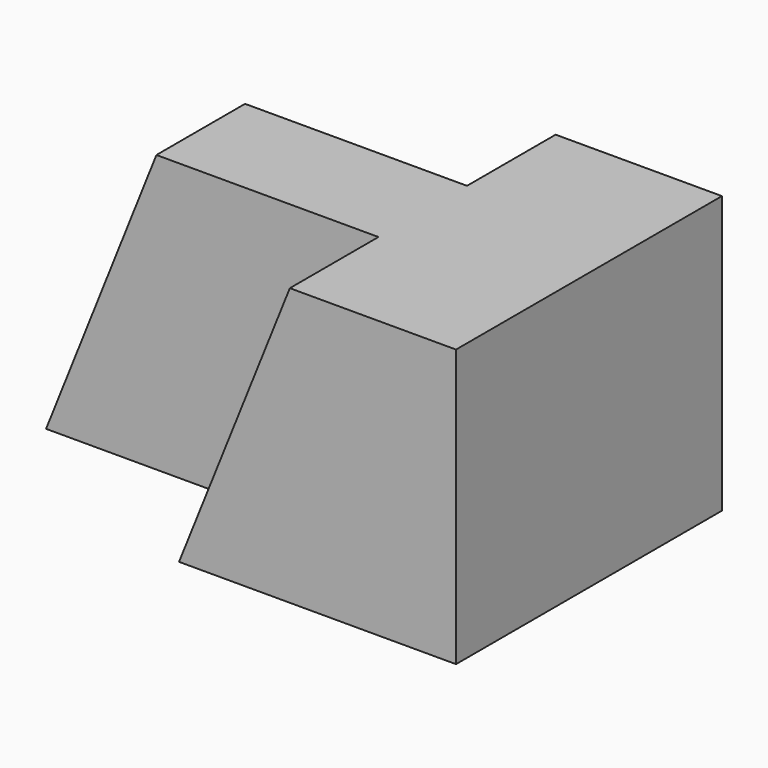
from build123d import *

# Parameters (mm, degrees)
F0_W      = 57.15
F0_H      = 31.75
F1_DEPTH  = 38.1
F3_DEPTH  = 64.77
F4_W      = 12.7
F4_H      = 32.225172
F5_DEPTH  = 25.4
F7_DEPTH  = 12.7
F9_DEPTH  = 12.7
F11_DEPTH = 12.7


with BuildPart() as f1:
    # F0 (on Front) → F1 (new body)
    with BuildSketch(Plane.XZ):
        with Locations((28.575, 15.875)):
            Rectangle(F0_W, F0_H)
    extrude(amount=F1_DEPTH)

    # F2 (on Front) → F3 (cut)
    with BuildSketch(Plane.XZ):
        Polygon((0, 0), (12.7, 31.884328), (0, 31.884328), align=None)
    extrude(amount=F3_DEPTH, mode=Mode.SUBTRACT)

    # F4 (on Right) → F5 (cut)
    with BuildSketch(Plane.YZ):
        with Locations((-6.35, 16.112586)):
            Rectangle(F4_W, F4_H)
        Polygon((-25.4, 0), (-25.4, 32.225172), (-38.1, 32.225172), (-38.209904, 0), align=None)
    extrude(amount=F5_DEPTH, mode=Mode.SUBTRACT)

    # F6 (on Front) → F7 (cut)
    with BuildSketch(Plane.XZ):
        Polygon((38.103979, 31.787962), (25.397928, 31.787962), (25.365233, 0), align=None)
    extrude(amount=F7_DEPTH, mode=Mode.SUBTRACT)

    # F8 (on Front) → F9 (cut)
    with BuildSketch(Plane.XZ):
        Polygon((75.160764, -53.294525), (61.148994, -53.294525), (61.104827, -85.576326), (79.001695, -128.796339), (79.001695, -96.281484), (93.439646, -96.281484), align=None)
        Polygon((94.494686, -128.999516), (93.439646, -96.281484), (79.001695, -96.281484), (79.001695, -128.796339), align=None)
    extrude(amount=-F9_DEPTH, mode=Mode.SUBTRACT)

    # F10 (on face) → F11 (cut)
    with BuildSketch(Plane.XZ.offset(38.1)):
        Polygon((25.4, 0), (38.1, 31.75), (25.4, 31.75), align=None)
    extrude(amount=-F11_DEPTH, mode=Mode.SUBTRACT)


solid = f1.part
